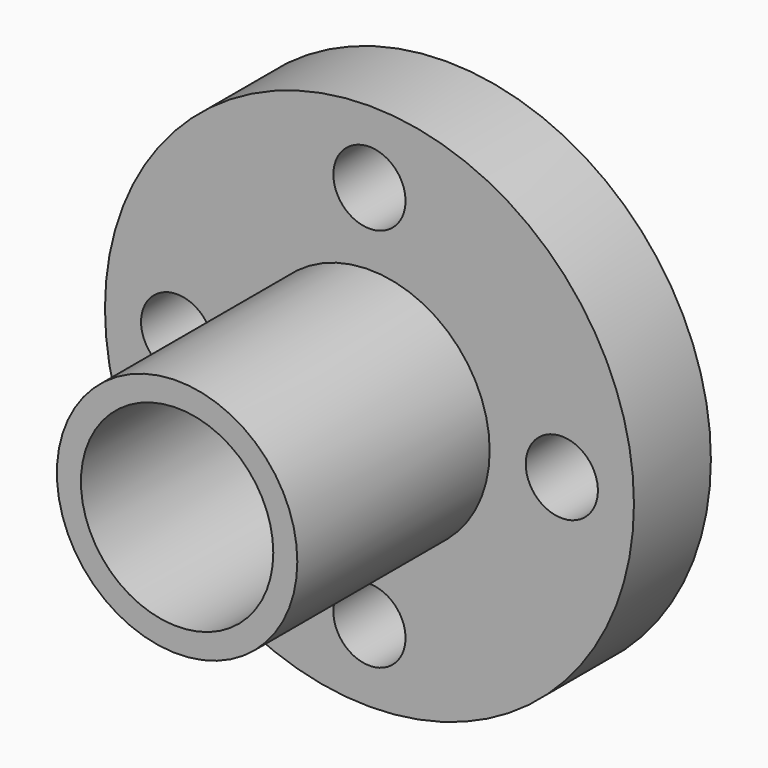
from build123d import *

# Parameters (mm, degrees)
F0_R     = 11
F1_DEPTH = 4
F2_R     = 5
F3_DEPTH = 10
F4_R     = 4
F5_DEPTH = 25
F6_R     = 1.5
F7_DEPTH = 25


with BuildPart() as f1:
    # F0 (on Front) → F1 (new body)
    with BuildSketch(Plane.XZ):
        Circle(F0_R)
    extrude(amount=F1_DEPTH)

    # F2 (on face) → F3 (join)
    with BuildSketch(Plane.XZ.offset(4)):
        Circle(F2_R)
    extrude(amount=F3_DEPTH)

    # F4 (on face) → F5 (cut)
    with BuildSketch(Plane.XZ.offset(14)):
        Circle(F4_R)
    extrude(amount=-F5_DEPTH, mode=Mode.SUBTRACT)

    # F6 (on face) → F7 (cut)
    with BuildSketch(Plane(origin=(0, 0, 0), x_dir=(-1, 0, 0), z_dir=(0, 1, 0))):
        with Locations((-8, 0)):
            Circle(F6_R)
        with Locations((0, 8)):
            Circle(F6_R)
        with Locations((8, 0)):
            Circle(F6_R)
        with Locations((0, -8)):
            Circle(F6_R)
    extrude(amount=-F7_DEPTH, mode=Mode.SUBTRACT)


solid = f1.part
